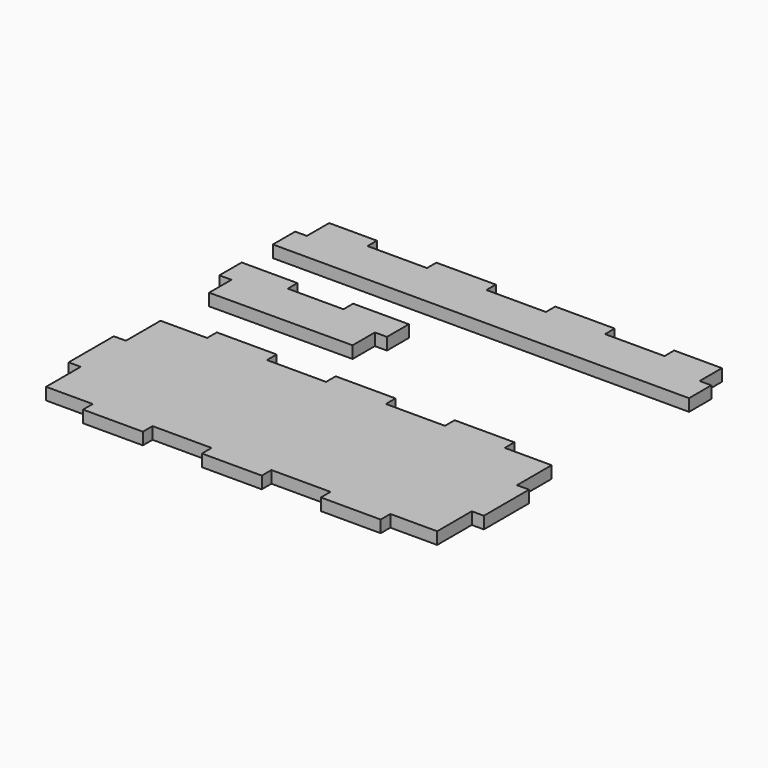
from build123d import *

# Parameters (mm, degrees)
F1_DEPTH = 6.5
F3_DEPTH = 6.5
F5_DEPTH = 6.5


with BuildPart() as f1:
    # F0 (on Top) → F1 (new body)
    with BuildSketch(Plane.XY):
        Polygon((32, 23.7), (32, 30), (6.3, 30), (6.3, 15), (0, 15), (0, 0), (224, 0), (224, 15), (217.7, 15), (217.7, 30), (192, 30), (192, 23.5), (160, 23.5), (160, 30), (128, 30), (128, 23.7), (96, 23.7), (96, 30), (64, 30), (64, 23.7), align=None)
    extrude(amount=F1_DEPTH)


with BuildPart() as f3:
    # F2 (on Top) → F3 (new body)
    with BuildSketch(Plane.XY):
        Polygon((30, -21.002606), (0, -21.002606), (0, -36.002606), (6.5, -36.002606), (6.5, -51.002606), (83.499998, -50.752603), (83.499998, -35.752603), (90, -35.752603), (90, -21.002606), (60, -21.002606), (60, -27.502606), (30, -27.502606), align=None)
    extrude(amount=F3_DEPTH)


with BuildPart() as f5:
    # F4 (on Top) → F5 (new body)
    with BuildSketch(Plane.XY):
        Polygon((6.5, -83.711147), (6.5, -107.011147), (0, -107.011147), (0, -137.411147), (6.5, -137.411147), (6.5, -160.711147), (31.6, -160.711147), (31.6, -167.211147), (63.8, -167.211147), (63.8, -160.711147), (95.6, -160.711147), (95.6, -167.211147), (127.8, -167.211147), (127.8, -160.711147), (159.6, -160.711147), (159.6, -167.211147), (191.8, -167.211147), (191.8, -160.711147), (217, -160.711147), (217, -137.411147), (223.5, -137.411147), (223.5, -107.011147), (217, -107.011147), (217, -83.711147), (191.8, -83.711147), (191.8, -77.211147), (159.6, -77.211147), (159.6, -83.711147), (127.8, -83.711147), (127.8, -77.211147), (95.6, -77.211147), (95.6, -83.711147), (63.8, -83.711147), (63.8, -77.211147), (31.6, -77.211147), (31.6, -83.711147), align=None)
    extrude(amount=F5_DEPTH)


solid = Compound([f1.part, f3.part, f5.part])
